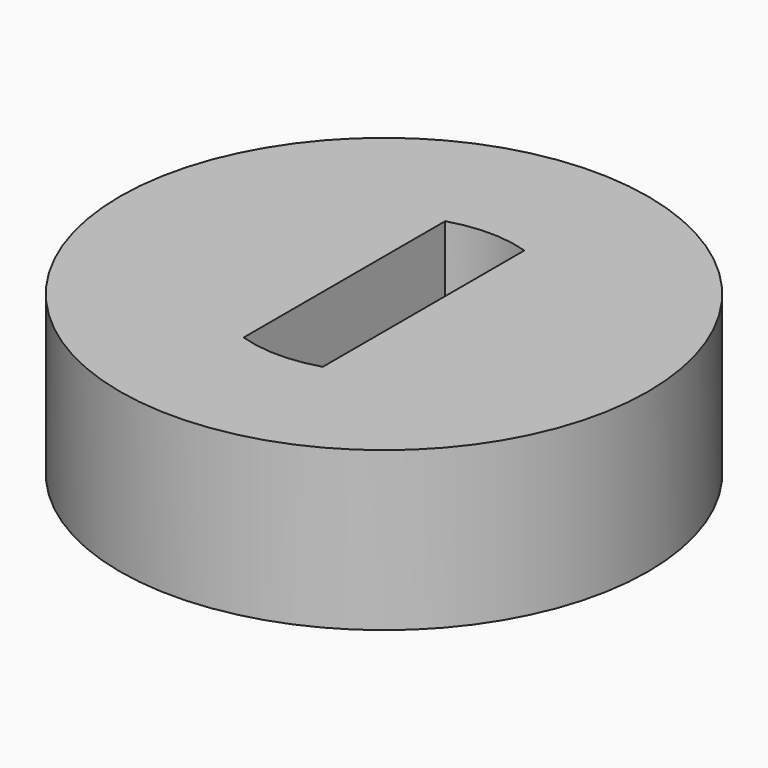
from build123d import *

# Parameters (mm, degrees)
F0_R     = 10
F1_DEPTH = 6


with BuildPart() as f1:
    # F0 (on Top) → F1 (new body)
    with BuildSketch(Plane.XY):
        Circle(F0_R)
        with BuildLine():
            ThreePointArc((1.5, 4.7696960071), (4.0311288741, 2.9580398915), (5, 0))
            ThreePointArc((5, 0), (4.0311288741, -2.9580398915), (1.5, -4.7696960071))
            Line((1.5, -4.7696960071), (1.5, -5.7218258735))
            Line((1.5, -5.7218258735), (-1.5, -5.7218258735))
            Line((-1.5, -5.7218258735), (-1.5, -4.7696960071))
            ThreePointArc((-1.5, -4.7696960071), (-5, 0), (-1.5, 4.7696960071))
            Line((-1.5, 4.7696960071), (-1.5, 5.7218258735))
            Line((-1.5, 5.7218258735), (1.5, 5.7218258735))
            Line((1.5, 5.7218258735), (1.5, 4.7696960071))
        make_face(mode=Mode.SUBTRACT)
        with BuildLine():
            Line((-1.5, -4.7696960071), (-1.5, 4.7696960071))
            ThreePointArc((-1.5, 4.7696960071), (-5, 0), (-1.5, -4.7696960071))
        make_face()
        with BuildLine():
            ThreePointArc((1.5, -4.7696960071), (4.0311288741, -2.9580398915), (5, 0))
            ThreePointArc((5, 0), (4.0311288741, 2.9580398915), (1.5, 4.7696960071))
            Line((1.5, 4.7696960071), (1.5, -4.7696960071))
        make_face()
        with BuildLine():
            ThreePointArc((-1.5, 4.7696960071), (0, 5), (1.5, 4.7696960071))
            Line((1.5, 4.7696960071), (1.5, 5.7218258735))
            Line((1.5, 5.7218258735), (-1.5, 5.7218258735))
            Line((-1.5, 5.7218258735), (-1.5, 4.7696960071))
        make_face()
        with BuildLine():
            Line((1.5, -5.7218258735), (1.5, -4.7696960071))
            ThreePointArc((1.5, -4.7696960071), (0, -5), (-1.5, -4.7696960071))
            Line((-1.5, -4.7696960071), (-1.5, -5.7218258735))
            Line((-1.5, -5.7218258735), (1.5, -5.7218258735))
        make_face()
    extrude(amount=F1_DEPTH)


solid = f1.part
